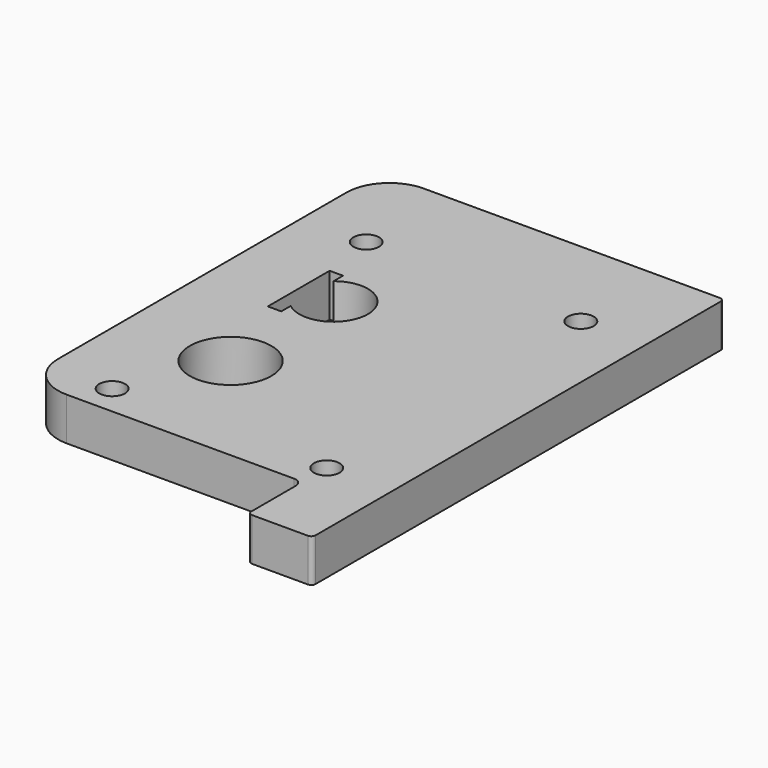
from build123d import *

# Parameters (mm, degrees)
SKETCH_R    = 9.5
SKETCH_R_2  = 3
PAD_DEPTH   = 10
FILLET_R    = 10
FILLET001_R = 2
FILLET002_R = 1


with BuildPart() as part:
    # Sketch → Pad (new body)
    with BuildSketch(Plane.XY):
        Polygon((-25, 45), (55, 45), (55, -75), (40, -75), (40, -59), (-25, -59), align=None)
        with Locations((0, -30)):
            Circle(SKETCH_R, mode=Mode.SUBTRACT)
        with Locations((-10, -52)):
            Circle(SKETCH_R_2, mode=Mode.SUBTRACT)
        with Locations((40, -52)):
            Circle(SKETCH_R_2, mode=Mode.SUBTRACT)
        with Locations((40, 22)):
            Circle(SKETCH_R_2, mode=Mode.SUBTRACT)
        with Locations((-10, 22)):
            Circle(SKETCH_R_2, mode=Mode.SUBTRACT)
        with BuildLine():
            ThreePointArc((-5, -6.244998), (8, 0), (-5, 6.244998))
            Line((-5, 9), (-5, 6.244998))
            Line((-8.125, 9), (-5, 9))
            Line((-8.125, -9), (-8.125, 9))
            Line((-5, -9), (-8.125, -9))
            Line((-5, -6.244998), (-5, -9))
        make_face(mode=Mode.SUBTRACT)
    extrude(amount=PAD_DEPTH)

    # Fillet
    fillet_edges = [part.edges().sort_by_distance(p)[0] for p in [
        (-25, 45, 5),
        (-25, -59, 5),
    ]]
    fillet(fillet_edges, radius=FILLET_R)

    # Fillet001
    fillet001_edges = [part.edges().sort_by_distance(p)[0] for p in [
        (40, -59, 5),
    ]]
    fillet(fillet001_edges, radius=FILLET001_R)

    # Fillet002
    fillet002_edges = [part.edges().sort_by_distance(p)[0] for p in [
        (40, -75, 5),
        (55, -75, 5),
        (55, 45, 5),
    ]]
    fillet(fillet002_edges, radius=FILLET002_R)


solid = part.part
